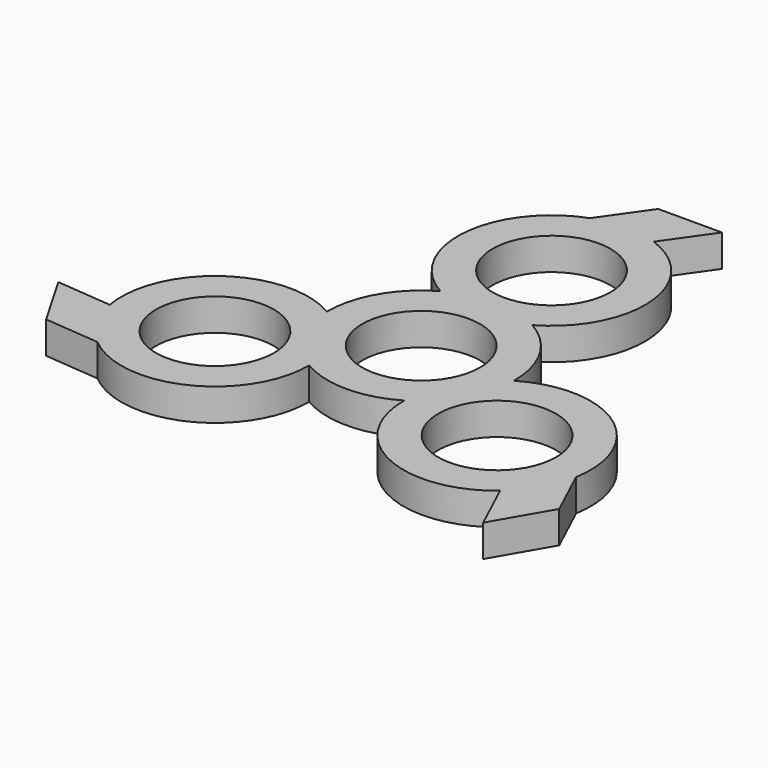
from build123d import *

# Parameters (mm, degrees)
F0_R     = 11.025
F1_DEPTH = 6


with BuildPart() as f1:
    # F0 (on Top) → F1 (new body)
    with BuildSketch(Plane.XY):
        with BuildLine():
            ThreePointArc((17.499169, -0.17055), (15.155445, 8.75), (8.601884, 15.24))
            ThreePointArc((8.601884, 15.24), (17.439625, 31.932406), (5.962434, 46.932945))
            Line((5.962434, 46.932945), (11.924867, 55.435569))
            Line((11.924867, 55.435569), (0, 55.435569))
            Line((0, 55.435569), (-5.962434, 46.932945))
            ThreePointArc((-5.962434, 46.932945), (-17.439625, 31.932406), (-8.601884, 15.24))
            ThreePointArc((-8.601884, 15.24), (-15.155445, 8.75), (-17.499169, -0.17055))
            ThreePointArc((-17.499169, -0.17055), (-36.374087, -0.863045), (-43.626339, -18.302853))
            Line((-43.626339, -18.302853), (-53.971044, -17.390546))
            Line((-53.971044, -17.390546), (-48.008611, -27.717784))
            Line((-48.008611, -27.717784), (-37.663906, -28.630091))
            ThreePointArc((-37.663906, -28.630091), (-18.934462, -31.069361), (-8.897285, -15.06945))
            ThreePointArc((-8.897285, -15.06945), (0, -17.5), (8.897285, -15.06945))
            ThreePointArc((8.897285, -15.06945), (18.934462, -31.069361), (37.663906, -28.630091))
            Line((37.663906, -28.630091), (42.046177, -38.045022))
            Line((42.046177, -38.045022), (48.008611, -27.717784))
            Line((48.008611, -27.717784), (43.626339, -18.302853))
            ThreePointArc((43.626339, -18.302853), (36.374087, -0.863045), (17.499169, -0.17055))
        make_face()
        with Locations((-26.396454, -15.24)):
            Circle(F0_R, mode=Mode.SUBTRACT)
        with Locations((26.396454, -15.24)):
            Circle(F0_R, mode=Mode.SUBTRACT)
        Circle(F0_R, mode=Mode.SUBTRACT)
        with Locations((0, 30.48)):
            Circle(F0_R, mode=Mode.SUBTRACT)
    extrude(amount=F1_DEPTH)


solid = f1.part
